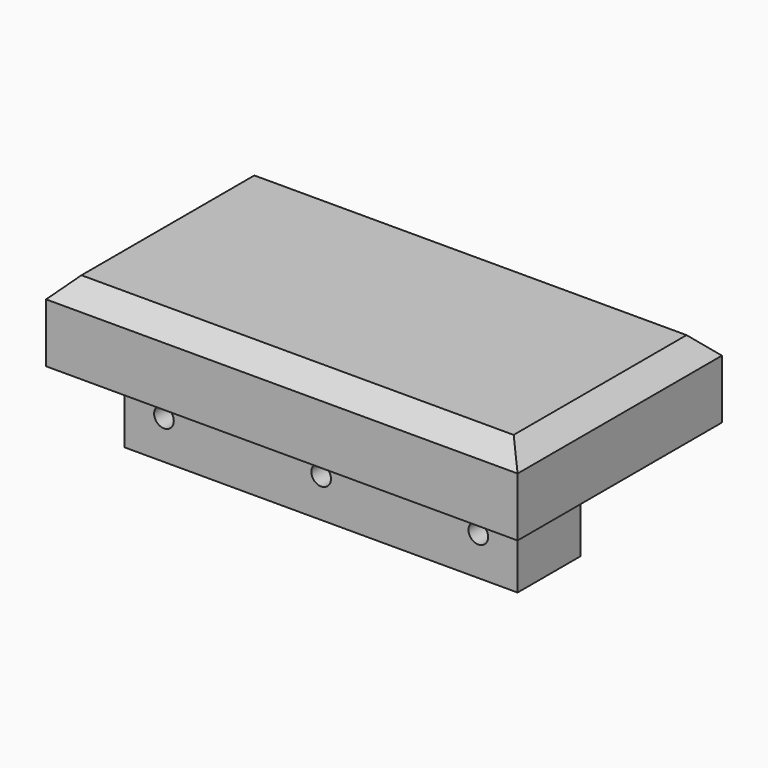
from build123d import *

# Parameters (mm, degrees)
F0_W     = 152.4
F0_H     = 82.55
F1_DEPTH = 25.4
F3_DEPTH = 25.4
F4_R     = 3.175
F5_DEPTH = 25.4
F6_SIZE  = 6.35


with BuildPart() as f1:
    # F0 (on Top) → F1 (new body)
    with BuildSketch(Plane.XY):
        Rectangle(F0_W, F0_H)
    extrude(amount=F1_DEPTH)

    # F2 (on Front) → F3 (join)
    with BuildSketch(Plane.XZ):
        Polygon((63.5, 0), (0, 0), (-63.5, 0), (-63.5, -25.4), (63.5, -25.4), align=None)
    extrude(amount=F3_DEPTH)

    # F4 (on face) → F5 (cut)
    with BuildSketch(Plane.XZ.offset(25.4)):
        with BuildLine():
            Line((3.175, -12.7), (0, -12.7))
            Line((0, -12.7), (-3.175, -12.7))
            ThreePointArc((-3.175, -12.7), (0, -15.875), (3.175, -12.7))
        make_face()
        with BuildLine():
            Line((-3.175, -12.7), (0, -12.7))
            Line((0, -12.7), (3.175, -12.7))
            ThreePointArc((3.175, -12.7), (0, -9.525), (-3.175, -12.7))
        make_face()
        with Locations((-50.8, -12.7)):
            Circle(F4_R)
        with BuildLine():
            ThreePointArc((53.975, -12.7), (50.8, -9.525), (47.625, -12.7))
            ThreePointArc((47.625, -12.7), (50.8, -15.875), (53.975, -12.7))
        make_face()
    extrude(amount=-F5_DEPTH, mode=Mode.SUBTRACT)

    # F6
    f6_edges = [f1.edges().sort_by_distance(p)[0] for p in [
        (0, 41.275, 25.4),
        (-76.2, 0, 25.4),
        (0, -41.275, 25.4),
        (76.2, 0, 25.4),
    ]]
    chamfer(f6_edges, length=F6_SIZE)


solid = f1.part
